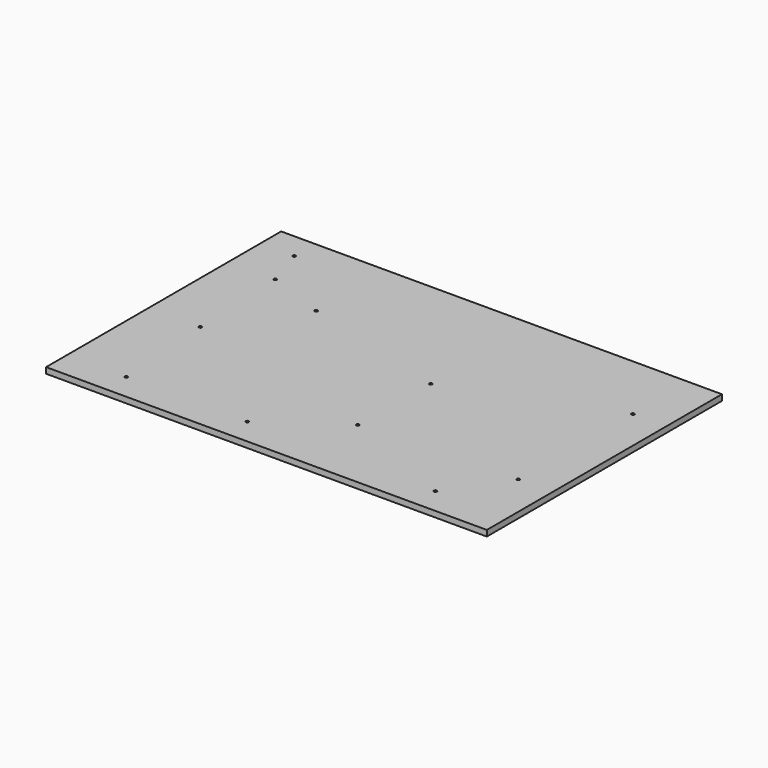
from build123d import *

# Parameters (mm, degrees)
F0_W     = 300
F0_H     = 200
F1_DEPTH = 4
F2_R     = 1
F3_DEPTH = 4.001


with BuildPart() as f1:
    # F0 (on Top) → F1 (new body)
    with BuildSketch(Plane.XY):
        Rectangle(F0_W, F0_H)
    extrude(amount=F1_DEPTH)

    # F2 (on face) → F3 (cut, through all)
    with BuildSketch(Plane.XY.offset(4)):
        with Locations((-114.839275, -12.660972)):
            Circle(F2_R)
        with Locations((-109.673074, -82.169247)):
            Circle(F2_R)
        with Locations((100.726926, -82.169247)):
            Circle(F2_R)
        with Locations((-117.973198, 54.966453)):
            Circle(F2_R)
        with Locations((-78.39802, 40.315673)):
            Circle(F2_R)
        with Locations((127.313586, 52.643505)):
            Circle(F2_R)
        with Locations((21.638953, 12.620114)):
            Circle(F2_R)
        with Locations((126.627619, -44.154065)):
            Circle(F2_R)
        with Locations((20.915916, -48.475608)):
            Circle(F2_R)
        with Locations((-27.273074, -82.169247)):
            Circle(F2_R)
        with Locations((-126.878142, 82.25)):
            Circle(F2_R)
    extrude(amount=-F3_DEPTH, mode=Mode.SUBTRACT)


solid = f1.part
